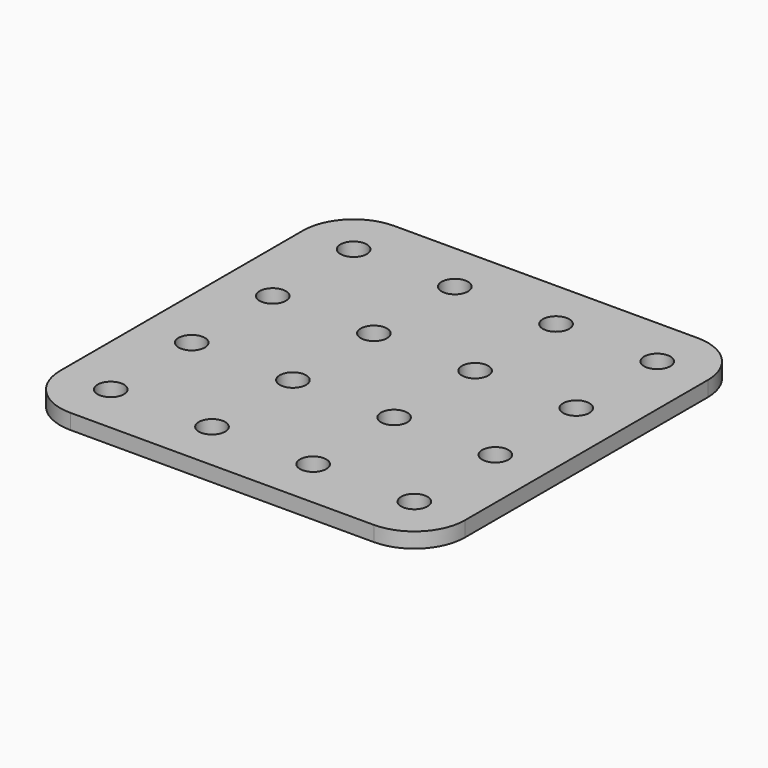
from build123d import *

# Parameters (mm, degrees)
F0_W     = 80
F0_H     = 80
F1_DEPTH = 3
F2_D     = 5.2
F3_R     = 10


with BuildPart() as f1:
    # F0 (on Top) → F1 (new body)
    with BuildSketch(Plane.XY):
        Rectangle(F0_W, F0_H)
    extrude(amount=F1_DEPTH)

    # F2 (through all)
    with Locations(Plane(origin=(0, 0, 0), x_dir=(1, 0, 0), z_dir=(0, 0, -1))):
        with Locations((-30, 30), (-10, 30), (10, 30), (30, 30), (30, 10), (10, 10), (-10, 10), (-30, 10), (-30, -10), (-10, -10), (10, -10), (30, -10), (30, -30), (10, -30), (-10, -30), (-30, -30)):
            Hole(F2_D / 2)

    # F3
    f3_edges = [f1.edges().sort_by_distance(p)[0] for p in [
        (40, 40, 1.5),
        (-40, 40, 1.5),
        (-40, -40, 1.5),
        (40, -40, 1.5),
    ]]
    fillet(f3_edges, radius=F3_R)


solid = f1.part
